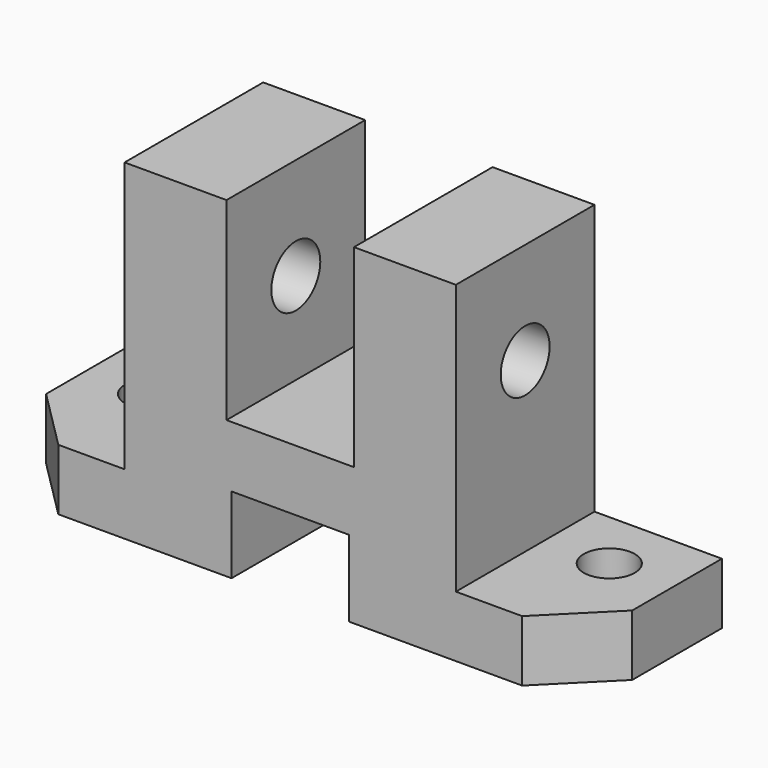
from build123d import *

# Parameters (mm, degrees)
F1_DEPTH = 34
F2_R     = 6
F3_DEPTH = 90.001
F4_R     = 5
F5_DEPTH = 67.22541
F7_DEPTH = 67.22541


with BuildPart() as f1:
    # F0 (on Front) → F1 (new body)
    with BuildSketch(Plane.XZ):
        Polygon((-12.5, -2.22441), (-32.5, -2.22441), (-32.5, -55.22441), (-57.5, -55.22441), (-57.5, -67.22441), (-11.515748, -67.22441), (-11.515748, -52.22441), (0, -52.22441), (11.515748, -52.22441), (11.515748, -67.22441), (57.5, -67.22441), (57.5, -55.22441), (32.5, -55.22441), (32.5, -2.22441), (12.5, -2.22441), (12.5, -40.22441), (0, -40.22441), (-12.5, -40.22441), align=None)
    extrude(amount=F1_DEPTH)

    # F2 (on face) → F3 (cut, through all)
    with BuildSketch(Plane.YZ.offset(32.5)):
        with Locations((-17, -22.22441)):
            Circle(F2_R)
    extrude(amount=-F3_DEPTH, mode=Mode.SUBTRACT)

    # F4 (on Top) → F5 (cut, through all)
    with BuildSketch(Plane.XY):
        with Locations((-45, -12)):
            Circle(F4_R)
        with Locations((45, -12)):
            Circle(F4_R)
    extrude(amount=-F5_DEPTH, mode=Mode.SUBTRACT)

    # F6 (on Top) → F7 (cut, through all)
    with BuildSketch(Plane.XY):
        Polygon((57.5, -34), (57.5, -22), (45.5, -34), align=None)
        Polygon((-45.5, -34), (-57.5, -22), (-57.5, -34), align=None)
    extrude(amount=-F7_DEPTH, mode=Mode.SUBTRACT)


solid = f1.part
